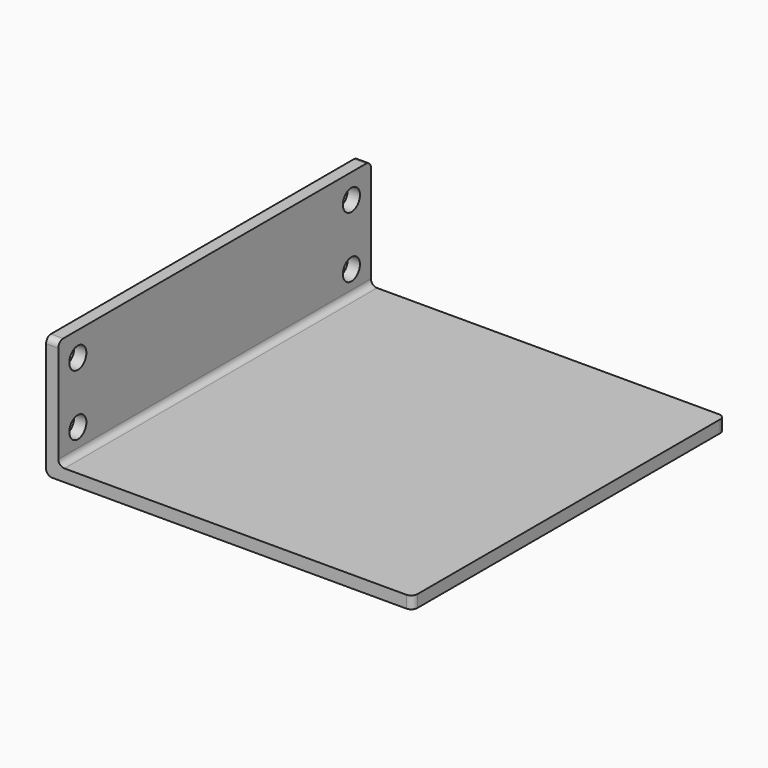
from build123d import *

# Parameters (mm, degrees)
F1_DEPTH = 320
F2_R     = 5
F4_D     = 17.5
F4_DEPTH = 20
F4_TIP   = 5.2575304165
F5_R     = 5
F6_R     = 5


with BuildPart() as f1:
    # F0 (on Front) → F1 (new body)
    with BuildSketch(Plane.XZ):
        Polygon((5, -45), (5, 45), (-5, 45), (-5, -45), (-5, -55), (295, -55), (295, -45), align=None)
    extrude(amount=-F1_DEPTH)

    # F2
    f2_edges = [f1.edges().sort_by_distance(p)[0] for p in [
        (0, 0, 45),
        (0, 320, 45),
        (295, 320, -50),
        (295, 0, -50),
    ]]
    fillet(f2_edges, radius=F2_R)

    # F4
    with Locations(Plane.YZ.offset(5)):
        with Locations((20, -25), (20, 25), (300, 25), (300, -25)):
            Hole(F4_D / 2, depth=F4_DEPTH)
            with Locations((0, 0, -(F4_DEPTH + F4_TIP / 2))):  # 118° drill point
                Cone(0, F4_D / 2, F4_TIP, mode=Mode.SUBTRACT)

    # F5
    f5_edges = [f1.edges().sort_by_distance(p)[0] for p in [
        (-5, 160, -55),
    ]]
    fillet(f5_edges, radius=F5_R)

    # F6
    f6_edges = [f1.edges().sort_by_distance(p)[0] for p in [
        (5, 160, -45),
    ]]
    fillet(f6_edges, radius=F6_R)


solid = f1.part
